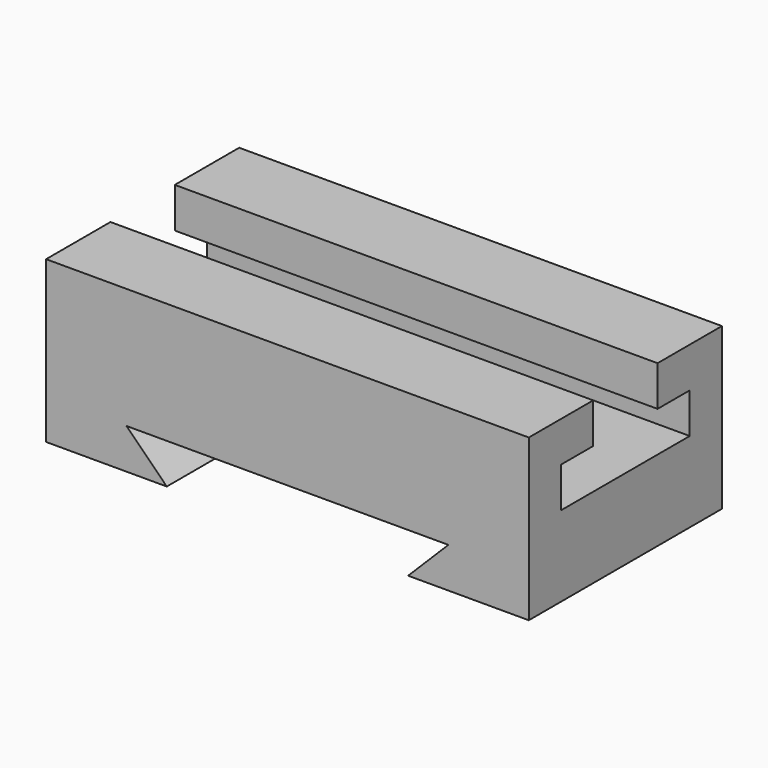
from build123d import *

# Parameters (mm, degrees)
F1_DEPTH = 152.4
F3_DEPTH = 80.772


with BuildPart() as f1:
    # F0 (on Right) → F1 (new body)
    with BuildSketch(Plane.YZ):
        Polygon((0, 50.8), (0, 0), (76.2, 0), (76.2, 50.8), (50.8, 50.8), (50.8, 38.1), (63.5, 38.1), (63.5, 25.4), (12.7, 25.4), (12.7, 38.1), (25.4, 38.1), (25.4, 50.8), align=None)
    extrude(amount=F1_DEPTH)

    # F2 (on face) → F3 (cut)
    with BuildSketch(Plane.XZ):
        Polygon((25.4, 12.7), (38.1, 0), (114.3, 0), (127, 12.7), align=None)
    extrude(amount=-F3_DEPTH, mode=Mode.SUBTRACT)


solid = f1.part
